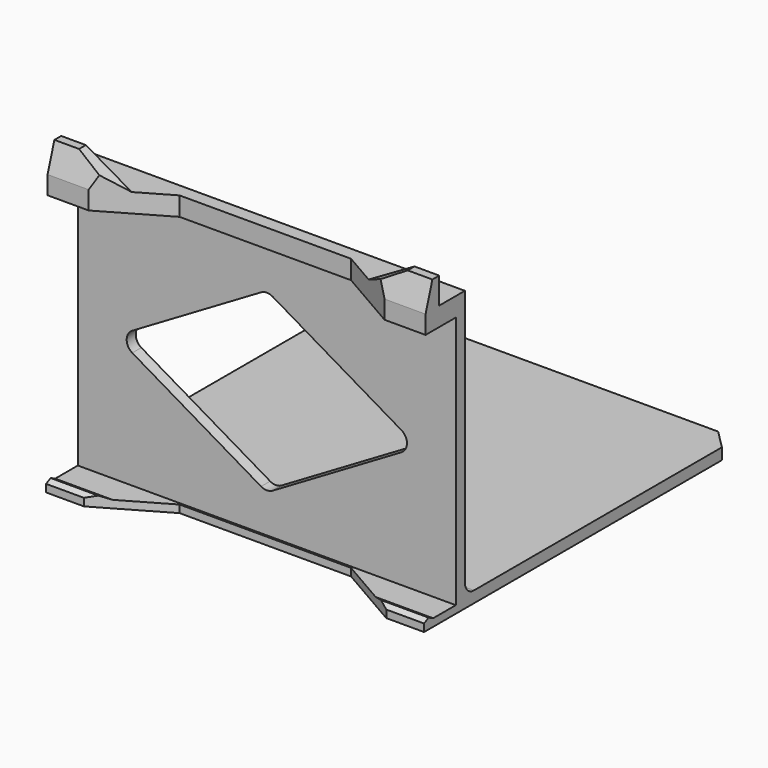
from build123d import *

# Parameters (mm, degrees)
F1_DEPTH = 50
F2_SIZE  = 5
F3_R     = 3
F5_DEPTH = 81.001
F7_DEPTH = 3.3870205364
F9_DEPTH = 3
F10_R    = 3


with BuildPart() as f1:
    # F0 (on Right) → F1 (new body, symmetric)
    with BuildSketch(Plane.YZ):
        Polygon((-3.8070693339, 56.0675364137), (-3.8070693339, -10.9324635863), (-11.3070693339, -10.9324635863), (-12.8070693339, -10.1824635863), (-14.3070693339, -10.9324635863), (-14.3070693339, -12.9324635863), (-0.8070693339, -12.9324635863), (89.1929306661, -12.9324635863), (89.1929306661, -9.9324635863), (-0.8070693339, -9.9324635863), (-0.8070693339, 61.0675364137), (-9.3070693339, 61.0675364137), (-9.3070693339, 68.0675364137), (-11.5570693339, 68.0675364137), (-13.8070693339, 60.9096959233), (-13.8070693339, 56.0675364137), align=None)
    extrude(amount=F1_DEPTH, both=True)

    # F2
    f2_edges = [f1.edges().sort_by_distance(p)[0] for p in [
        (50, 89.192931, -11.432464),
        (-50, 89.192931, -11.432464),
    ]]
    chamfer(f2_edges, length=F2_SIZE)

    # F3
    f3_edges = [f1.edges().sort_by_distance(p)[0] for p in [
        (0, -0.807069, -9.932464),
    ]]
    fillet(f3_edges, radius=F3_R)

    # F4 (on face) → F5 (cut, through all)
    with BuildSketch(Plane(origin=(0, 0, -12.9324635863), x_dir=(1, 0, 0), z_dir=(0, 0, -1))):
        Polygon((40, 14.3070693339), (-40, 14.3070693339), (-22.6794919243, 4.3070693339), (0, 4.3070693339), (22.6794919243, 4.3070693339), align=None)
    extrude(amount=-F5_DEPTH, mode=Mode.SUBTRACT)

    # F6 (on face) → F7 (cut, through all)
    with BuildSketch(Plane(origin=(0, -9.3070693339, 0), x_dir=(-1, 0, 0), z_dir=(0, 1, 0))):
        Polygon((-43.4641016151, 68.0675364137), (-31.3397459622, 61.0675364137), (-31.3397459622, 68.0675364137), align=None)
        Polygon((31.3397459622, 68.0675364137), (31.3397459622, 61.0675364137), (43.4641016151, 68.0675364137), align=None)
    extrude(amount=-F7_DEPTH, mode=Mode.SUBTRACT)

    # F8 (on face) → F9 (cut, through all)
    with BuildSketch(Plane.XZ.offset(3.8070693339)):
        Polygon((0, 46.0675364137), (-40, 22.5675364137), (0, -0.9324635863), (40, 22.5675364137), align=None)
    extrude(amount=-F9_DEPTH, mode=Mode.SUBTRACT)

    # F10
    f10_edges = [f1.edges().sort_by_distance(p)[0] for p in [
        (-40, -2.307069, 22.567536),
        (0, -2.307069, 46.067536),
        (40, -2.307069, 22.567536),
        (0, -2.307069, -0.932464),
    ]]
    fillet(f10_edges, radius=F10_R)


solid = f1.part
